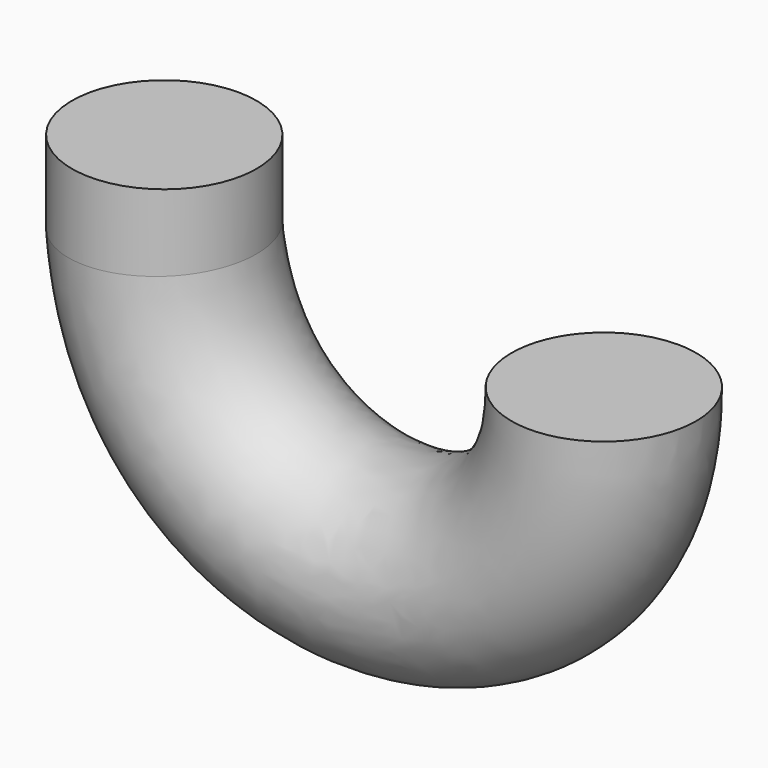
from build123d import *

# Parameters (mm, degrees)
F0_R     = 52.5
F4_ANGLE = 270


with BuildPart() as f2:
    # F2: sweep along a path in F1
    with BuildLine(Plane.YZ) as f2_path:
        add(Plane.YZ * Edge.make_bspline(
            [(0, 0), (0, -159.7560793161), (235.484406352, -172.7121770382), (250, 0)],
            knots=[0, 0, 0, 0, 250, 250, 250, 250], degree=3))
        Line((250, 0), (250, 45))
    # F0 (on Top) → F2 (sweep)
    with BuildSketch(Plane.XY):
        Circle(F0_R)
    sweep(path=f2_path.line, transition=Transition.RIGHT)


with BuildPart() as f2_1:
    # F4: moved
    add(f2.part.rotate(Axis((0, 0, -42.3021055758), (0, 0, -1)), F4_ANGLE))


solid = f2_1.part
